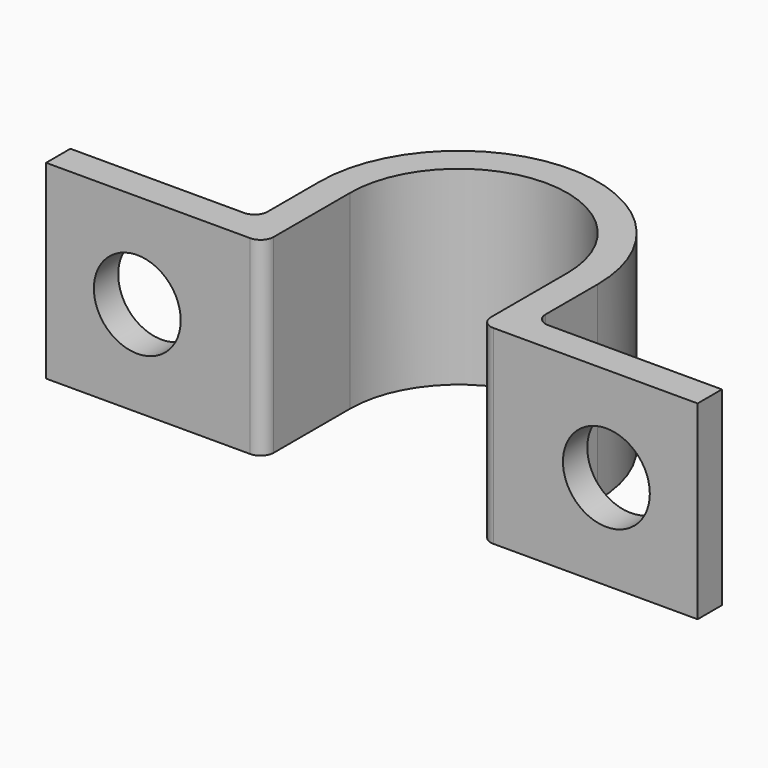
from build123d import *

# Parameters (mm, degrees)
F1_DEPTH = 11.1125
F2_R     = 0.762
F3_R     = 2.54
F4_DEPTH = 14.479


with BuildPart() as f1:
    # F0 (on Top) → F1 (new body)
    with BuildSketch(Plane.XY):
        with BuildLine():
            Line((-6.35, -6.35), (-6.35, 0))
            ThreePointArc((-6.35, 0), (0, 6.35), (6.35, 0))
            Line((6.35, 0), (6.35, -6.35))
            Line((6.35, -6.35), (19.05, -6.35))
            Line((19.05, -6.35), (19.05, -4.572))
            Line((19.05, -4.572), (8.128, -4.572))
            Line((8.128, -4.572), (8.128, 0))
            ThreePointArc((8.128, 0), (0, 8.128), (-8.128, 0))
            Line((-8.128, 0), (-8.128, -4.572))
            Line((-8.128, -4.572), (-19.05, -4.572))
            Line((-19.05, -4.572), (-19.05, -6.35))
            Line((-19.05, -6.35), (-6.35, -6.35))
        make_face()
    extrude(amount=F1_DEPTH)

    # F2
    f2_edges = [f1.edges().sort_by_distance(p)[0] for p in [
        (-6.35, -6.35, 5.55625),
        (6.35, -6.35, 5.55625),
        (8.128, -4.572, 5.55625),
        (-8.128, -4.572, 5.55625),
    ]]
    fillet(f2_edges, radius=F2_R)

    # F3 (on face) → F4 (cut, through all)
    with BuildSketch(Plane.XZ.offset(6.35)):
        with Locations((-13.716, 5.55625)):
            Circle(F3_R)
        with Locations((13.716, 5.55625)):
            Circle(F3_R)
    extrude(amount=-F4_DEPTH, mode=Mode.SUBTRACT)


solid = f1.part
